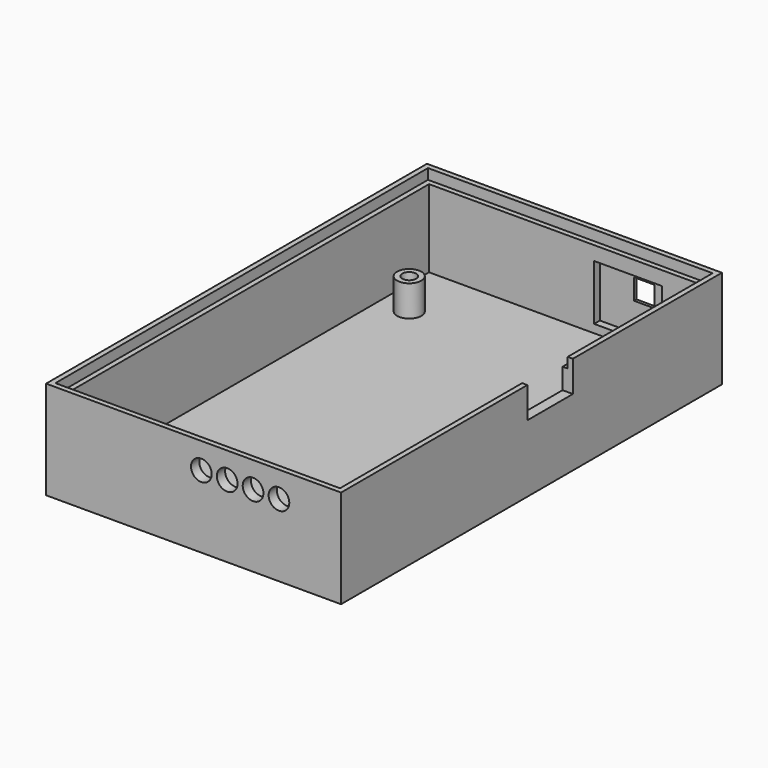
from build123d import *

# Parameters (mm, degrees)
SKETCH_W        = 57
SKETCH_H        = 92
PAD_DEPTH       = 2
SKETCH001_W     = 57
SKETCH001_H     = 92
SKETCH001_W_2   = 53
SKETCH001_H_2   = 88
PAD001_DEPTH    = 17
SKETCH002_R     = 2.35
SKETCH002_R_2   = 1.35
SKETCH002_R_3   = 2
PAD002_DEPTH    = 6
SKETCH003_W     = 55
SKETCH003_H     = 90
POCKET_DEPTH    = 2
SKETCH004_W     = 13.1
SKETCH004_H     = 10.7
POCKET001_DEPTH = 1.4
SKETCH005_R     = 1.4
PAD003_DEPTH    = 1.6
SKETCH006_W     = 4
SKETCH006_H     = 4
POCKET002_DEPTH = 0.6
SKETCH007_W     = 11
SKETCH007_H     = 6
POCKET003_DEPTH = 2
SKETCH008_R     = 2
POCKET004_DEPTH = 5


with BuildPart() as part:
    # Sketch → Pad (new body)
    with BuildSketch(Plane.XY):
        Rectangle(SKETCH_W, SKETCH_H)
    extrude(amount=-PAD_DEPTH)

    # Sketch001 (on Face5 of Pad) → Pad001 (join)
    with BuildSketch(Plane.XY):
        Rectangle(SKETCH001_W, SKETCH001_H)
        Rectangle(SKETCH001_W_2, SKETCH001_H_2, mode=Mode.SUBTRACT)
    extrude(amount=PAD001_DEPTH)

    # Sketch002 (on Face15 of Pad001) → Pad002 (join)
    with BuildSketch(Plane.XY):
        with Locations((-20.841524, 32.145128)):
            Circle(SKETCH002_R)
        with Locations((-20.841524, 32.145128)):
            Circle(SKETCH002_R_2, mode=Mode.SUBTRACT)
        with Locations((20.158476, 32.145128)):
            Circle(SKETCH002_R)
        with Locations((20.158476, 32.145128)):
            Circle(SKETCH002_R_2, mode=Mode.SUBTRACT)
        with Locations((20.158476, -32.054872)):
            Circle(SKETCH002_R_3)
        with Locations((20.158476, -32.054872)):
            Circle(SKETCH002_R_2, mode=Mode.SUBTRACT)
        with Locations((-20.841524, -32.054872)):
            Circle(SKETCH002_R)
        with Locations((-20.841524, -32.054872)):
            Circle(SKETCH002_R_2, mode=Mode.SUBTRACT)
    extrude(amount=PAD002_DEPTH)

    # Sketch003 (on Face9 of Pad002) → Pocket (cut)
    with BuildSketch(Plane.XY.offset(17)):
        Rectangle(SKETCH003_W, SKETCH003_H)
    extrude(amount=-POCKET_DEPTH, mode=Mode.SUBTRACT)

    # Sketch004 (on Face16 of Pocket) → Pocket001 (cut)
    with BuildSketch(Plane.XZ.offset(-44)):
        with Locations((11.95, 6.95)):
            Rectangle(SKETCH004_W, SKETCH004_H)
    extrude(amount=-POCKET001_DEPTH, mode=Mode.SUBTRACT)

    # Sketch005 (on Face29 of Pocket001) → Pad003 (join)
    with BuildSketch(Plane.XZ.offset(-45.4)):
        with Locations((15.6, 4.5)):
            Circle(SKETCH005_R)
    extrude(amount=PAD003_DEPTH)

    # Sketch006 (on Face29 of Pad003) → Pocket002 (cut)
    with BuildSketch(Plane.XZ.offset(-45.4)):
        with Locations((14, 9.1)):
            Rectangle(SKETCH006_W, SKETCH006_H)
    extrude(amount=-POCKET002_DEPTH, mode=Mode.SUBTRACT)

    # Sketch007 (on Face8 of Pad003) → Pocket003 (cut)
    with BuildSketch(Plane.YZ.offset(28.5)):
        with Locations((4.5, 14)):
            Rectangle(SKETCH007_W, SKETCH007_H)
    extrude(amount=-POCKET003_DEPTH, mode=Mode.SUBTRACT)

    # Sketch008 (on Face14 of Pocket003) → Pocket004 (cut)
    with BuildSketch(Plane.XZ.offset(46)):
        with Locations((6.5, 12)):
            Circle(SKETCH008_R)
        with Locations((11.5, 12)):
            Circle(SKETCH008_R)
        with Locations((16.5, 12)):
            Circle(SKETCH008_R)
        with Locations((1.5, 12)):
            Circle(SKETCH008_R)
    extrude(amount=-POCKET004_DEPTH, mode=Mode.SUBTRACT)


solid = part.part
